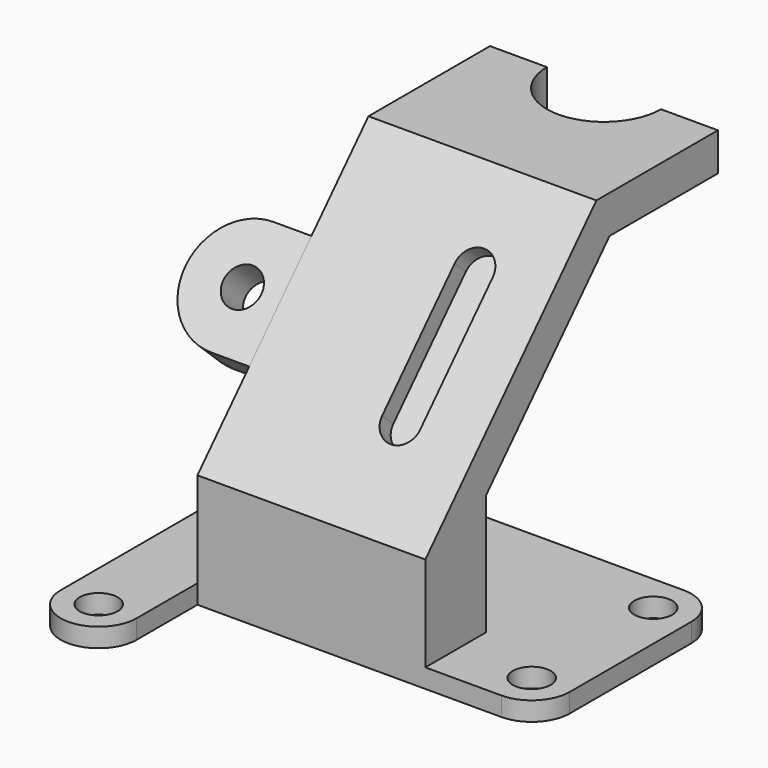
from build123d import *

# Parameters (mm, degrees)
F1_DEPTH  = 2
F3_DEPTH  = 24
F4_R      = 2
F5_DEPTH  = 2.001
F6_R      = 2
F7_DEPTH  = 4
F8_DEPTH  = 2
F10_DEPTH = 36.135672


with BuildPart() as f1:
    # F0 (on Top) → F1 (new body)
    with BuildSketch(Plane.XY):
        with BuildLine():
            Line((0, 28), (0, 0))
            ThreePointArc((0, 0), (4, -4), (8, 0))
            Line((8, 0), (8, 8))
            Line((8, 8), (40, 8))
            ThreePointArc((40, 8), (42.828427, 9.171573), (44, 12))
            Line((44, 12), (44, 28))
            ThreePointArc((44, 28), (42.828427, 30.828427), (40, 32))
            Line((40, 32), (4, 32))
            ThreePointArc((4, 32), (1.171573, 30.828427), (0, 28))
        make_face()
    extrude(amount=-F1_DEPTH)

    # F2 (on face) → F3 (join)
    with BuildSketch(Plane.YZ.offset(8)):
        Polygon((8, 10), (8, 0), (16, 0), (16, 12.713833), (32.245195, 30.134672), (46.505946, 30.134672), (46.505946, 34.134672), (30.505946, 34.134672), align=None)
    extrude(amount=F3_DEPTH)

    # F4 (on face) → F5 (cut, through all)
    with BuildSketch(Plane.XY):
        with Locations((40, 12)):
            Circle(F4_R)
        with Locations((40, 28)):
            Circle(F4_R)
        with Locations((4, 0)):
            Circle(F4_R)
        with Locations((4, 28)):
            Circle(F4_R)
    extrude(amount=-F5_DEPTH, mode=Mode.SUBTRACT)

    # F6 (on face) → F7 (join)
    with BuildSketch(Plane(origin=(0, -0.708794, 0.660961), x_dir=(1, 0, 0), z_dir=(0, -0.731354, 0.681998))):
        with BuildLine():
            Line((4, 22.769524), (8, 22.769524))
            Line((8, 22.769524), (8, 34.769524))
            Line((8, 34.769524), (4, 34.769524))
            ThreePointArc((4, 34.769524), (-2, 28.769524), (4, 22.769524))
        make_face()
        with Locations((4, 28.769524)):
            Circle(F6_R, mode=Mode.SUBTRACT)
    extrude(amount=-F7_DEPTH)

    # F6 (on face) → F8 (cut)
    with BuildSketch(Plane(origin=(0, -0.708794, 0.660961), x_dir=(1, 0, 0), z_dir=(0, -0.731354, 0.681998))):
        with BuildLine():
            Line((26, 22.769524), (26, 36.769524))
            ThreePointArc((26, 36.769524), (24, 38.769524), (22, 36.769524))
            Line((22, 36.769524), (22, 22.769524))
            ThreePointArc((22, 22.769524), (24, 20.769524), (26, 22.769524))
        make_face()
    extrude(amount=-F8_DEPTH, mode=Mode.SUBTRACT)

    # F9 (on face) → F10 (cut, through all)
    with BuildSketch(Plane.XY.offset(34.134672)):
        with BuildLine():
            ThreePointArc((14, 46.505946), (20, 40.505946), (26, 46.505946))
            Line((26, 46.505946), (14, 46.505946))
        make_face()
    extrude(amount=-F10_DEPTH, mode=Mode.SUBTRACT)


solid = f1.part
